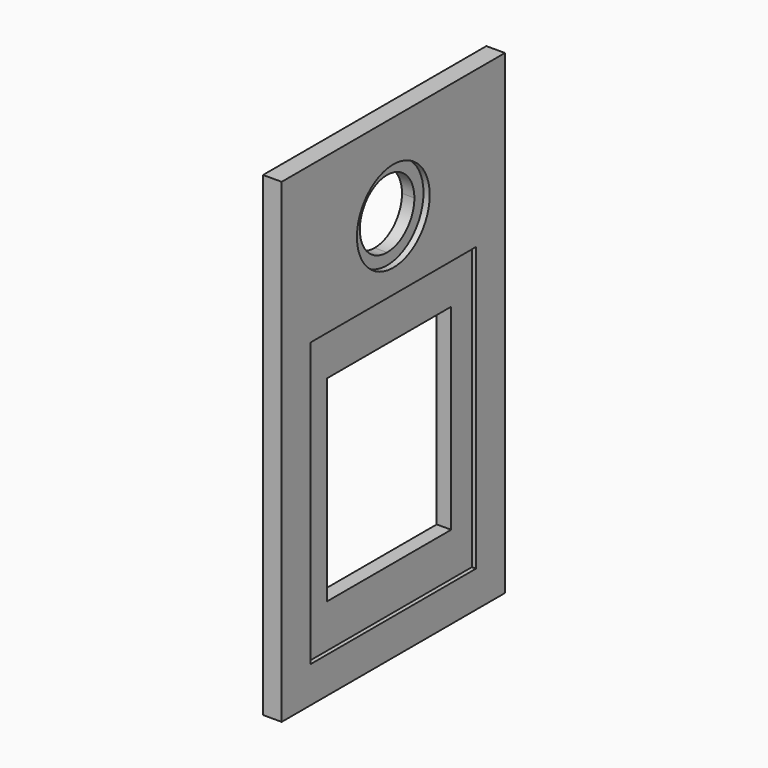
from build123d import *

# Parameters (mm, degrees)
F1_DEPTH = 9
F2_DEPTH = 6
F3_DEPTH = 7


with BuildPart() as f1:
    # F0 (on Right) → F1 (new body)
    with BuildSketch(Plane.YZ):
        with BuildLine():
            Line((0, 115), (-67.5, 115))
            Line((-67.5, 115), (-67.5, -115))
            Line((-67.5, -115), (0, -115))
            Line((0, -115), (0, -97.5))
            Line((0, -97.5), (-50, -97.5))
            Line((-50, -97.5), (-50, 30.4482906163))
            Line((-50, 30.4482906163), (-50, 39.5))
            Line((-50, 39.5), (0, 39.5))
            Line((0, 39.5), (0, 51))
            ThreePointArc((0, 51), (-22, 73), (0, 95))
            Line((0, 95), (0, 115))
        make_face()
        with BuildLine():
            Line((67.5, 115), (0, 115))
            Line((0, 115), (0, 95))
            ThreePointArc((0, 95), (15.5563491861, 88.5563491861), (22, 73))
            ThreePointArc((22, 73), (15.5563491861, 57.4436508139), (0, 51))
            Line((0, 51), (0, 39.5))
            Line((0, 39.5), (50, 39.5))
            Line((50, 39.5), (50, 30.4482906163))
            Line((50, 30.4482906163), (50, -97.5))
            Line((50, -97.5), (0, -97.5))
            Line((0, -97.5), (0, -115))
            Line((0, -115), (67.5, -115))
            Line((67.5, -115), (67.5, 115))
        make_face()
    extrude(amount=F1_DEPTH)

    # F0 (on Right) → F2 (join)
    with BuildSketch(Plane.YZ):
        with BuildLine():
            Line((0, 89.5), (0, 95))
            ThreePointArc((0, 95), (-22, 73), (0, 51))
            Line((0, 51), (0, 56.5))
            ThreePointArc((0, 56.5), (-16.5, 73), (0, 89.5))
        make_face()
        with BuildLine():
            ThreePointArc((22, 73), (15.5563491861, 88.5563491861), (0, 95))
            Line((0, 95), (0, 89.5))
            ThreePointArc((0, 89.5), (11.6672618896, 84.6672618896), (16.5, 73))
            ThreePointArc((16.5, 73), (11.6672618896, 61.3327381104), (0, 56.5))
            Line((0, 56.5), (0, 51))
            ThreePointArc((0, 51), (15.5563491861, 57.4436508139), (22, 73))
        make_face()
    extrude(amount=F2_DEPTH)

    # F0 (on Right) → F3 (join)
    with BuildSketch(Plane.YZ):
        Polygon((-50, -97.5), (0, -97.5), (0, -76.5), (-37.5, -76.5), (-37.5, 18.5), (0, 18.5), (0, 39.5), (-50, 39.5), (-50, 30.4482906163), align=None)
        Polygon((0, -76.5), (0, -97.5), (50, -97.5), (50, 30.4482906163), (50, 39.5), (0, 39.5), (0, 18.5), (37.5, 18.5), (37.5, -76.5), align=None)
    extrude(amount=F3_DEPTH)


solid = f1.part
